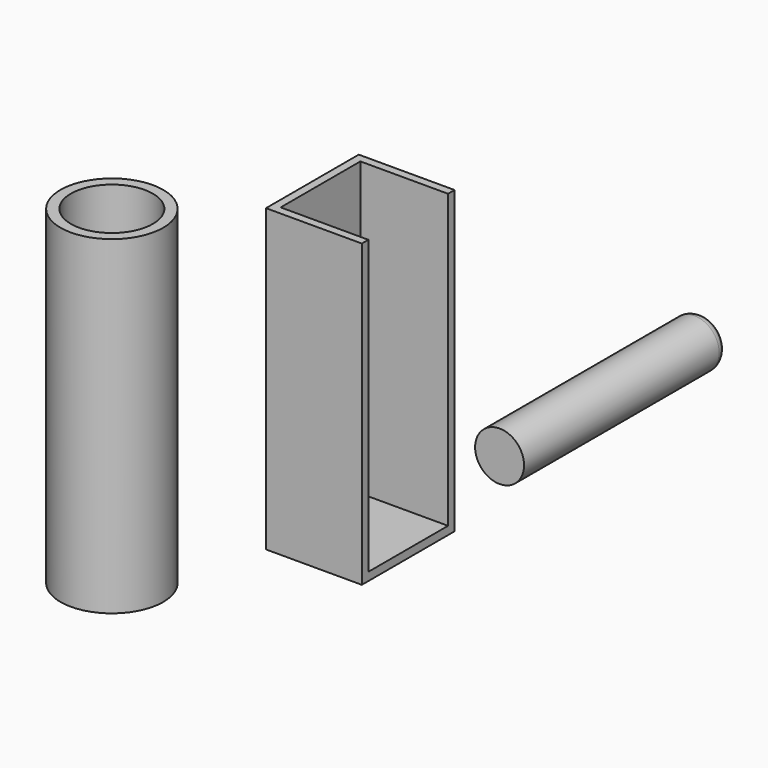
from build123d import *

# Parameters (mm, degrees)
F0_W      = 23.4936941415
F0_H      = 28.4224431962
F1_DEPTH  = 73.66
F2_T      = -2
F3_R      = 6
F4_DEPTH  = 62.23
F5_R      = 12.5933558232
F6_DEPTH  = 80.772
F7_T      = -2.54
F8_R      = 2.4528409794
F9_DEPTH  = 6.604
F10_DEPTH = 6.35
F11_DEPTH = 16.51
F12_DEPTH = 10


with BuildPart() as f1:
    # F0 (on Top) → F1 (new body)
    with BuildSketch(Plane.XY):
        with Locations((-30.3117958829, 27.0259650424)):
            Rectangle(F0_W, F0_H)
    extrude(amount=F1_DEPTH)

    # F2
    f2_openings = [f1.faces().sort_by_distance(p)[0] for p in [
        (-30.311796, 27.025965, 73.66),
        (-18.564949, 27.025965, 36.83),
    ]]
    offset(amount=F2_T, openings=f2_openings)


with BuildPart() as f4:
    # F3 (on Front) → F4 (new body)
    with BuildSketch(Plane.XZ):
        with Locations((25.4577267915, 47.2786352038)):
            Circle(F3_R)
    extrude(amount=-F4_DEPTH)

    # F8
    f8_edges = [f4.edges().sort_by_distance(p)[0] for p in [
        (19.457727, 62.23, 47.278635),
    ]]
    fillet(f8_edges, radius=F8_R)

    # F9 (add): a face of the model
    f9_faces = [f4.faces().sort_by_distance(p)[0] for p in [
        (25.4577267915, 62.23, 47.2786352038),
    ]]
    extrude(f9_faces, amount=-F9_DEPTH)

    # F10 (add): a face of the model
    f10_faces = [f4.faces().sort_by_distance(p)[0] for p in [
        (25.4577267915, 62.23, 47.2786352038),
    ]]
    extrude(f10_faces, amount=-F10_DEPTH)

    # F11 (add): a face of the model
    f11_faces = [f4.faces().sort_by_distance(p)[0] for p in [
        (25.4577267915, 62.23, 47.2786352038),
    ]]
    extrude(f11_faces, amount=-F11_DEPTH)

    # F12 (cut): a face of the model
    f12_faces = [f4.faces().sort_by_distance(p)[0] for p in [
        (25.4577267915, 62.23, 47.2786352038),
    ]]
    extrude(f12_faces, amount=-F12_DEPTH, mode=Mode.SUBTRACT)


with BuildPart() as f6:
    # F5 (on Top) → F6 (new body)
    with BuildSketch(Plane.XY):
        with Locations((-56.4004927874, -16.4891798049)):
            Circle(F5_R)
    extrude(amount=F6_DEPTH)

    # F7
    f7_openings = [f6.faces().sort_by_distance(p)[0] for p in [
        (-56.400493, -16.48918, 80.772),
    ]]
    offset(amount=F7_T, openings=f7_openings)


solid = Compound([f1.part, f4.part, f6.part])
